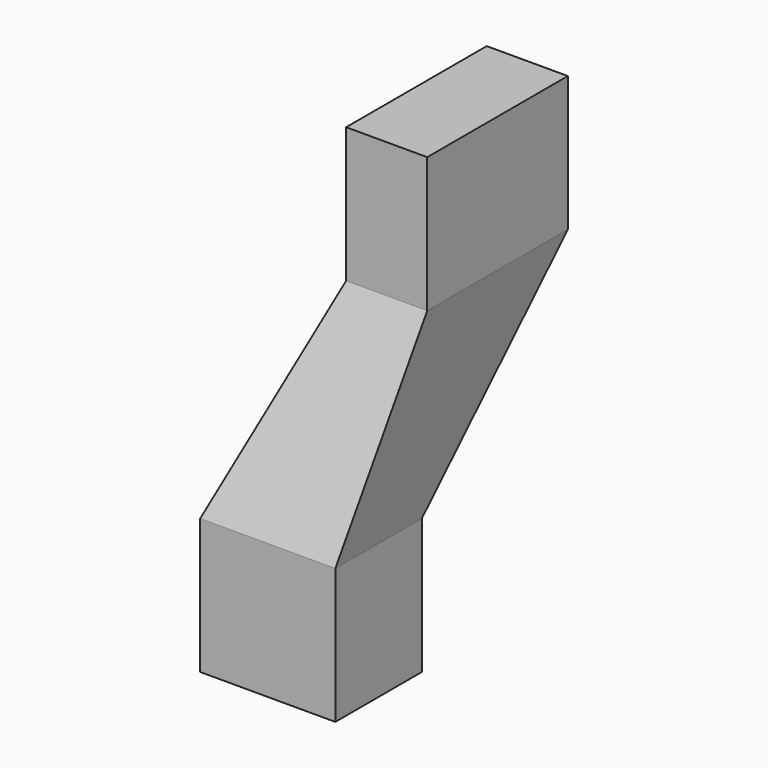
from build123d import *

# Parameters (mm, degrees)
F2_W     = 300
F2_H     = 650
F0_W     = 500
F0_H     = 400
F4_DEPTH = 500
F5_DEPTH = 500


with BuildPart() as f3:
    # F2 (on offset) → F3 section 0
    with BuildSketch(Plane.XY.offset(750)):
        with Locations((200, 425)):
            Rectangle(F2_W, F2_H)
    # F0 (on Top) → F3 section 1
    with BuildSketch(Plane.XY):
        Rectangle(F0_W, F0_H)
    loft()


with BuildPart() as f4:
    # F4 (new): a face of the model
    f4_faces = [f3.part.faces().sort_by_distance(p)[0] for p in [
        (0, 0, 0),
    ]]
    extrude(f4_faces, amount=F4_DEPTH)


with BuildPart() as f5:
    # F5 (new): a face of the model
    f5_faces = [f3.part.faces().sort_by_distance(p)[0] for p in [
        (200, 425, 750),
    ]]
    extrude(f5_faces, amount=F5_DEPTH)


solid = Compound([f3.part, f4.part, f5.part])
